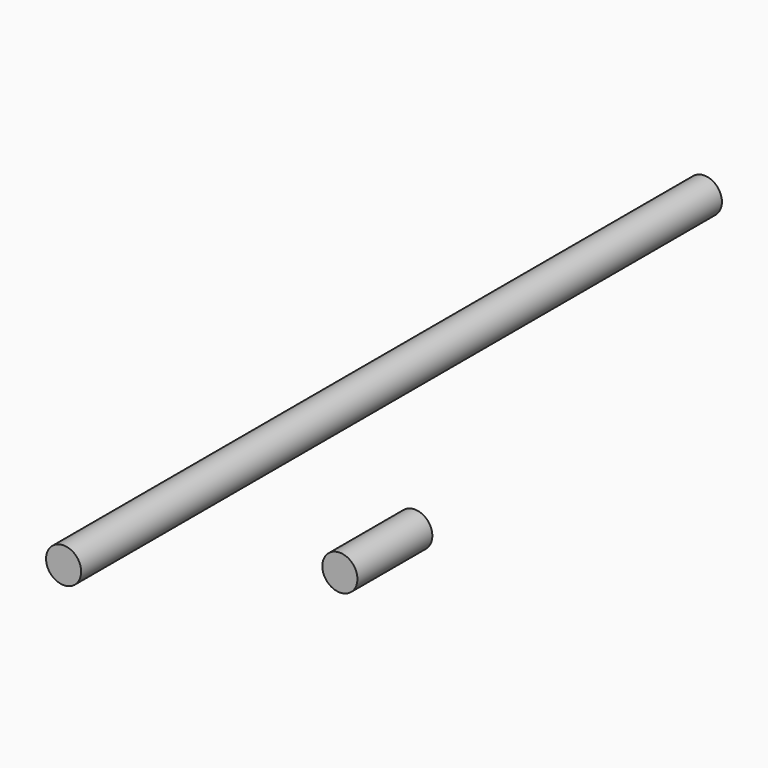
from build123d import *

# Parameters (mm, degrees)
F0_R     = 1.425
F1_DEPTH = 65
F3_DEPTH = 7.6


with BuildPart() as f1:
    # F0 (on Front) → F1 (new body)
    with BuildSketch(Plane.XZ):
        Circle(F0_R)
    extrude(amount=F1_DEPTH)


with BuildPart() as f1_1:
    # F2: moved
    add(f1.part.moved(Location((23.5, 0, 31.5))))


with BuildPart() as f3:
    # F0 (on Front) → F3 (new body)
    with BuildSketch(Plane.XZ):
        Circle(F0_R)
    extrude(amount=F3_DEPTH)


solid = Compound([f1_1.part, f3.part])
